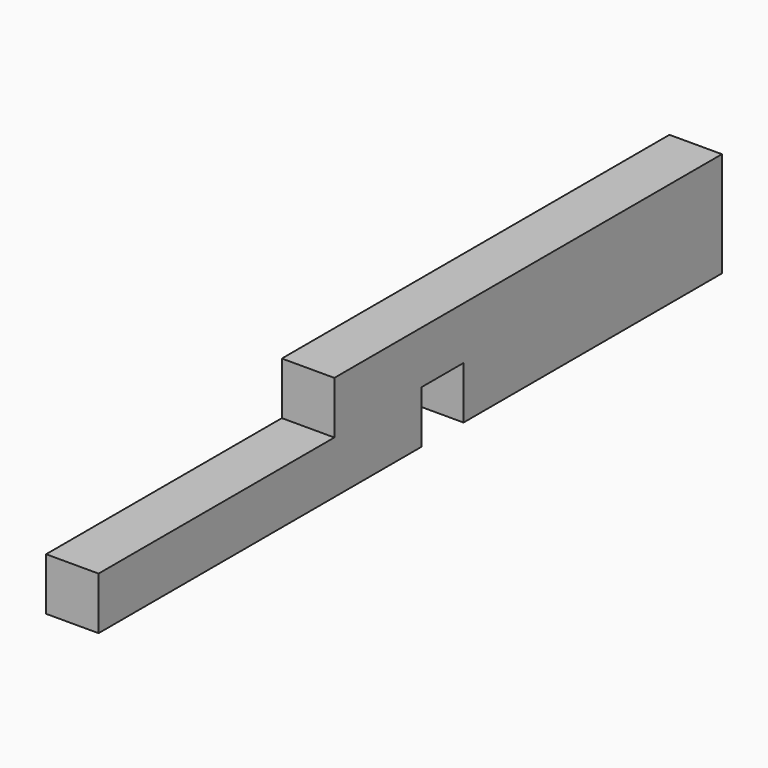
from build123d import *

# Parameters (mm, degrees)
BOX039_W     = 13
BOX039_H     = 120
BOX039_DEPTH = 13
BOX038_W     = 13
BOX038_H     = 80
BOX038_DEPTH = 13
BOX040_W     = 13
BOX040_H     = 100
BOX040_DEPTH = 13


with BuildPart() as cube035:
    # Box039 → Box039 (new body)
    with BuildSketch(Plane(origin=(-6.5, -102, -7), x_dir=(1, 0, 0), z_dir=(0, 0, 1))):
        with Locations((6.5, 60)):
            Rectangle(BOX039_W, BOX039_H)
    extrude(amount=BOX039_DEPTH)


with BuildPart() as fusion020:
    # Box038 → Box038 (new body)
    with BuildSketch(Plane(origin=(-6.5, -62, -20), x_dir=(1, 0, 0), z_dir=(0, 0, 1))):
        with Locations((6.5, 40)):
            Rectangle(BOX038_W, BOX038_H)
    extrude(amount=BOX038_DEPTH)

    # Fusion020: union Cube035
    add(cube035.part)


with BuildPart() as fusion021:
    # Box040 → Box040 (new body)
    with BuildSketch(Plane(origin=(-6.5, -175, -20), x_dir=(1, 0, 0), z_dir=(0, 0, 1))):
        with Locations((6.5, 50)):
            Rectangle(BOX040_W, BOX040_H)
    extrude(amount=BOX040_DEPTH)

    # Fusion021: union Fusion020
    add(fusion020.part)


solid = fusion021.part
